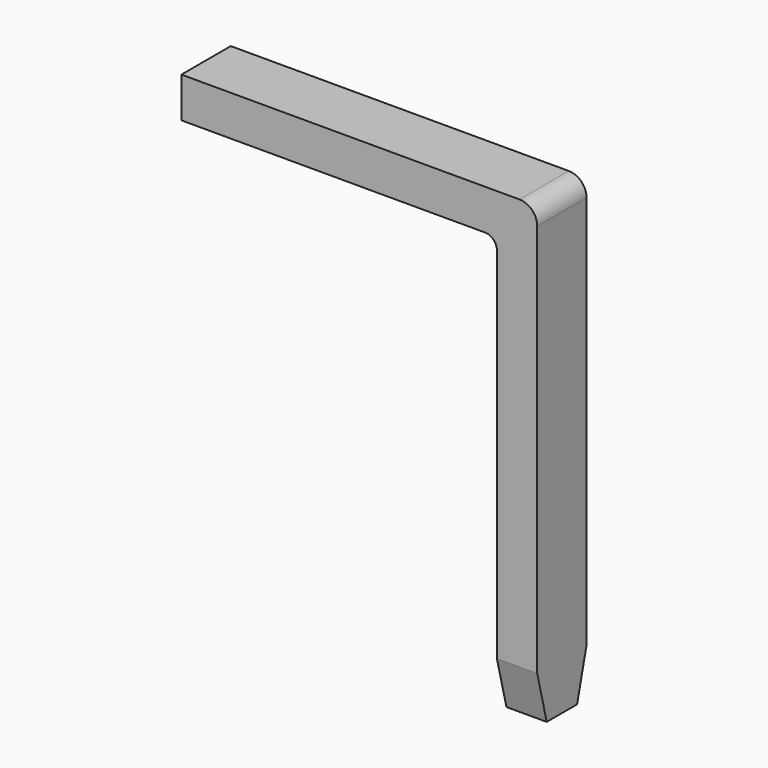
from build123d import *

# Parameters (mm, degrees)
BOX006_W         = 0.34
BOX006_H         = 0.52
BOX006_DEPTH     = 3.87
BOX007_W         = 3
BOX007_H         = 0.52
BOX007_DEPTH     = 0.34
FILLET007_R      = 0.15
FILLET008_R      = 0.1
CHAMFER016_SIZE2 = 0.4
CHAMFER016_SIZE  = 0.1
CHAMFER017_SIZE2 = 0.4
CHAMFER017_SIZE  = 0.1


with BuildPart() as kub006:
    # Box006 → Box006 (new body)
    with BuildSketch(Plane(origin=(-0.17, -0.26, -3), x_dir=(1, 0, 0), z_dir=(0, 0, 1))):
        with Locations((0.17, 0.26)):
            Rectangle(BOX006_W, BOX006_H)
    extrude(amount=BOX006_DEPTH)


with BuildPart() as chamfer017:
    # Box007 → Box007 (new body)
    with BuildSketch(Plane(origin=(-2.83, -0.26, 0.53), x_dir=(1, 0, 0), z_dir=(0, 0, 1))):
        with Locations((1.5, 0.26)):
            Rectangle(BOX007_W, BOX007_H)
    extrude(amount=BOX007_DEPTH)

    # Fusion004: union Kub006
    add(kub006.part)

    # Fillet007
    fillet007_edges = [chamfer017.edges().sort_by_distance(p)[0] for p in [
        (0.17, 0, 0.87),
    ]]
    fillet(fillet007_edges, radius=FILLET007_R)

    # Fillet008
    fillet008_edges = [chamfer017.edges().sort_by_distance(p)[0] for p in [
        (-0.17, 0, 0.53),
    ]]
    fillet(fillet008_edges, radius=FILLET008_R)

    # Chamfer016
    chamfer016_edges = [chamfer017.edges().sort_by_distance(p)[0] for p in [
        (0, 0.26, -3),
    ]]
    chamfer016_side = chamfer017.faces().sort_by_distance((0, 0, -3))[0]
    chamfer(chamfer016_edges, length=CHAMFER016_SIZE, length2=CHAMFER016_SIZE2, reference=chamfer016_side)

    # Chamfer017
    chamfer017_edges = [chamfer017.edges().sort_by_distance(p)[0] for p in [
        (0, -0.26, -3),
    ]]
    chamfer017_side = chamfer017.faces().sort_by_distance((0, -0.05, -3))[0]
    chamfer(chamfer017_edges, length=CHAMFER017_SIZE, length2=CHAMFER017_SIZE2, reference=chamfer017_side)


with BuildPart() as chamfer017_1:
    # Chamfer017 placement: moved
    add(chamfer017.part.moved(Location((0, -8.9, 0))))


solid = chamfer017_1.part
